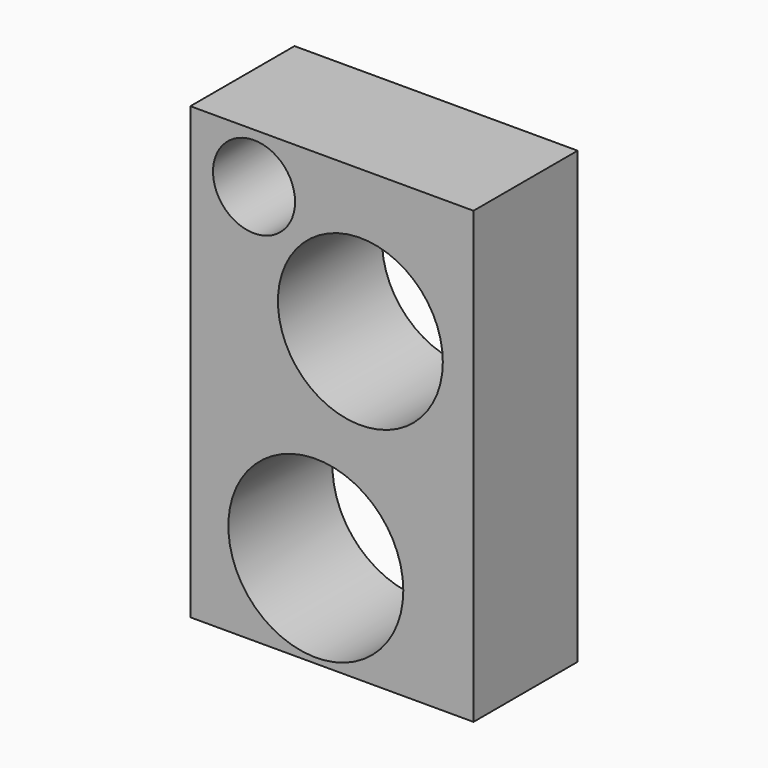
from build123d import *

# Parameters (mm, degrees)
F0_W     = 90.073623
F0_H     = 143.171803
F1_DEPTH = 41.402
F2_R     = 26.231861
F2_R_2   = 27.833733
F2_R_3   = 13.052792
F3_DEPTH = 57.15


with BuildPart() as f1:
    # F0 (on Front) → F1 (new body)
    with BuildSketch(Plane.XZ):
        with Locations((-22.4041, -6.924733)):
            Rectangle(F0_W, F0_H)
    extrude(amount=F1_DEPTH)

    # F2 (on face) → F3 (cut)
    with BuildSketch(Plane.XZ.offset(41.402)):
        with Locations((-13.360507, 19.130288)):
            Circle(F2_R)
        with Locations((-27.534528, -48.973117)):
            Circle(F2_R_2)
        with Locations((-47.195267, 48.684515)):
            Circle(F2_R_3)
    extrude(amount=-F3_DEPTH, mode=Mode.SUBTRACT)


solid = f1.part
